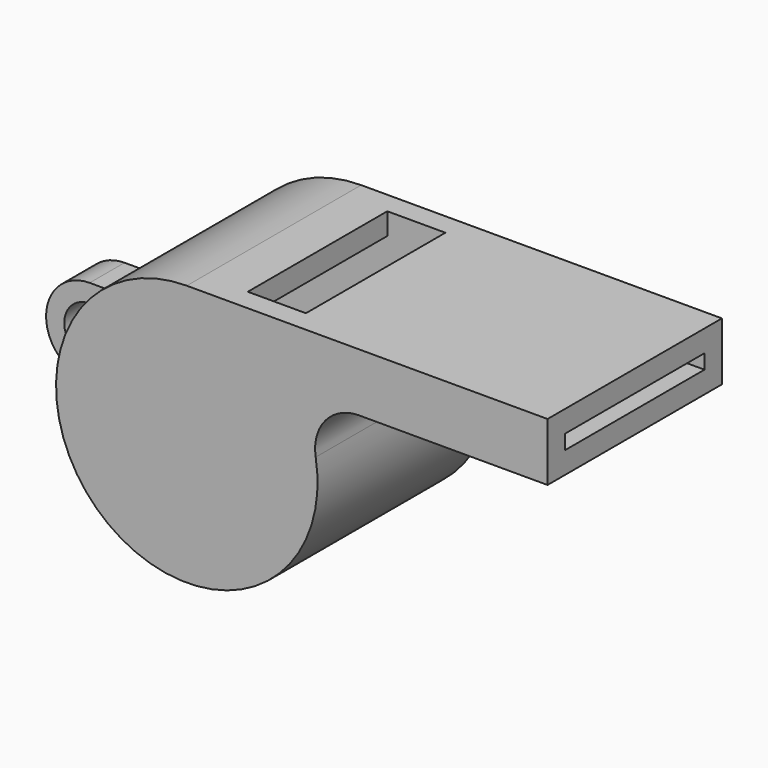
from build123d import *

# Parameters (mm, degrees)
F1_DEPTH = 7.5
F2_T     = -1.5
F3_W     = 4
F3_H     = 12
F4_DEPTH = 1.5
F5_R     = 1.75
F6_DEPTH = 1.5


with BuildPart() as f1:
    # F0 (on Front) → F1 (new body, symmetric)
    with BuildSketch(Plane.XZ):
        with BuildLine():
            Line((24.83216, 9), (0, 9))
            ThreePointArc((0, 9), (-5.809475, -6.873864), (8.87412, 1.5))
            ThreePointArc((8.87412, 1.5), (9.540872, 3.936492), (11.83216, 5))
            Line((11.83216, 5), (24.83216, 5))
            Line((24.83216, 5), (24.83216, 9))
        make_face()
    extrude(amount=F1_DEPTH, both=True)

    # F2
    f2_openings = [f1.faces().sort_by_distance(p)[0] for p in [
        (24.83216, 0, 7),
    ]]
    offset(amount=F2_T, openings=f2_openings)

    # F3 (on face) → F4 (cut)
    with BuildSketch(Plane.XY.offset(9)):
        with Locations((5, 0)):
            Rectangle(F3_W, F3_H)
    extrude(amount=-F4_DEPTH, mode=Mode.SUBTRACT)

    # F5 (on Front) → F6 (join, symmetric)
    with BuildSketch(Plane.XZ):
        with BuildLine():
            Line((-8.485281, 3), (-11.485281, 3))
            ThreePointArc((-11.485281, 3), (-14.485281, 0), (-11.485281, -3))
            Line((-11.485281, -3), (-8.485281, -3))
            Line((-8.485281, -3), (-8.485281, 3))
        make_face()
        with Locations((-11.485281, 0)):
            Circle(F5_R, mode=Mode.SUBTRACT)
    extrude(amount=F6_DEPTH, both=True)


with BuildPart() as f8:
    # F7 (on Front) → F8 (revolve)
    with BuildSketch(Plane.XZ):
        with BuildLine():
            Line((0, 2.5), (0, -7.5))
            ThreePointArc((0, -7.5), (5, -2.5), (0, 2.5))
        make_face()
    revolve(axis=Axis((0, 0, -2.5), (0, 0, -1)))


solid = Compound([f1.part, f8.part])
